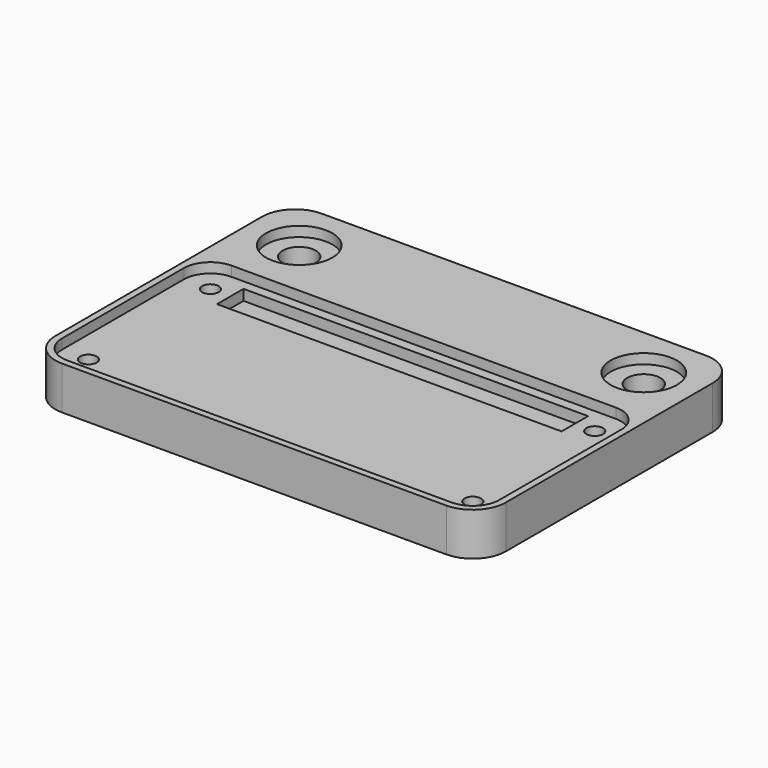
from build123d import *

# Parameters (mm, degrees)
FACE005_W        = 5
FACE005_H        = 52
EXTRUDE005_DEPTH = 1.6
FACE004_R        = 5
EXTRUDE004_DEPTH = 1.5
EXTRUDE003_DEPTH = 2
FACE002_R        = 1.25
EXTRUDE002_DEPTH = 10
FACE001_R        = 2.5
EXTRUDE001_DEPTH = 10
EXTRUDE_DEPTH    = 6.5


with BuildPart() as extrude005:
    # Face005 → Extrude005 (new body)
    with BuildSketch(Plane(origin=(34, 28, 5), x_dir=(0, 1, 0), z_dir=(0, 0, 1))):
        Rectangle(FACE005_W, FACE005_H)
    extrude(amount=-EXTRUDE005_DEPTH)


with BuildPart() as extrude004:
    # Face004 → Extrude004 (new body)
    with BuildSketch(Plane(origin=(34, 16.5, 6.5), x_dir=(0, 1, 0), z_dir=(0, 0, 1))):
        with BuildLine():
            ThreePointArc((15.5, 29), (14.328427, 31.828427), (11.5, 33))
            Line((11.5, 33), (-11.5, 33))
            ThreePointArc((-11.5, 33), (-14.328427, 31.828427), (-15.5, 29))
            Line((-15.5, 29), (-15.5, -29))
            ThreePointArc((-15.5, -29), (-14.328427, -31.828427), (-11.5, -33))
            Line((-11.5, -33), (11.5, -33))
            ThreePointArc((11.5, -33), (14.328427, -31.828427), (15.5, -29))
            Line((15.5, -29), (15.5, 29))
        make_face()
        with Locations((24.5, 26)):
            Circle(FACE004_R)
        with Locations((24.5, -26)):
            Circle(FACE004_R)
    extrude(amount=-EXTRUDE004_DEPTH)


with BuildPart() as extrude003:
    # Face003 → Extrude003 (new body)
    with BuildSketch(Plane(origin=(5, 5, 0), x_dir=(0, 1, 0), z_dir=(0, 0, 1))):
        Polygon((-1.443376, -2.5), (1.443376, -2.5), (2.886751, 0), (1.443376, 2.5), (-1.443376, 2.5), (-2.886751, 0), align=None)
        Polygon((24.443376, -60.5), (25.886751, -58), (24.443376, -55.5), (21.556624, -55.5), (20.113249, -58), (21.556624, -60.5), align=None)
        Polygon((1.443376, -60.5), (2.886751, -58), (1.443376, -55.5), (-1.443376, -55.5), (-2.886751, -58), (-1.443376, -60.5), align=None)
        Polygon((24.443376, -2.5), (25.886751, 0), (24.443376, 2.5), (21.556624, 2.5), (20.113249, 0), (21.556624, -2.5), align=None)
    extrude(amount=EXTRUDE003_DEPTH)


with BuildPart() as extrude002:
    # Face002 → Extrude002 (new body)
    with BuildSketch(Plane(origin=(63, 28, 6.5), x_dir=(0, 1, 0), z_dir=(0, 0, 1))):
        Circle(FACE002_R)
        with Locations((-23, 0)):
            Circle(FACE002_R)
        with Locations((-23, 58)):
            Circle(FACE002_R)
        with Locations((0, 58)):
            Circle(FACE002_R)
    extrude(amount=-EXTRUDE002_DEPTH)


with BuildPart() as extrude001:
    # Face001 → Extrude001 (new body)
    with BuildSketch(Plane(origin=(60, 41, 6.5), x_dir=(0, 1, 0), z_dir=(0, 0, 1))):
        Circle(FACE001_R)
        with Locations((0, 52)):
            Circle(FACE001_R)
    extrude(amount=-EXTRUDE001_DEPTH)


with BuildPart() as cut004:
    # Face → Extrude (new body)
    with BuildSketch(Plane(origin=(34, 24.5, 0), x_dir=(0, 1, 0), z_dir=(0, 0, 1))):
        with BuildLine():
            ThreePointArc((-19.5, 34), (-23.035534, 32.535534), (-24.5, 29))
            Line((-24.5, 29), (-24.5, -29.000001))
            ThreePointArc((-24.5, -29.000001), (-23.035534, -32.535534), (-19.5, -34))
            Line((-19.5, -34), (19.5, -34))
            ThreePointArc((19.5, -34), (23.035534, -32.535534), (24.5, -29))
            Line((24.5, -29), (24.5, 29))
            ThreePointArc((24.5, 29), (23.035534, 32.535534), (19.5, 34))
            Line((19.5, 34), (-19.5, 34))
        make_face()
    extrude(amount=EXTRUDE_DEPTH)

    # Cut: cut Extrude001
    add(extrude001.part, mode=Mode.SUBTRACT)

    # Cut001: cut Extrude002
    add(extrude002.part, mode=Mode.SUBTRACT)

    # Cut002: cut Extrude003
    add(extrude003.part, mode=Mode.SUBTRACT)

    # Cut003: cut Extrude004
    add(extrude004.part, mode=Mode.SUBTRACT)

    # Cut004: cut Extrude005
    add(extrude005.part, mode=Mode.SUBTRACT)


solid = cut004.part
